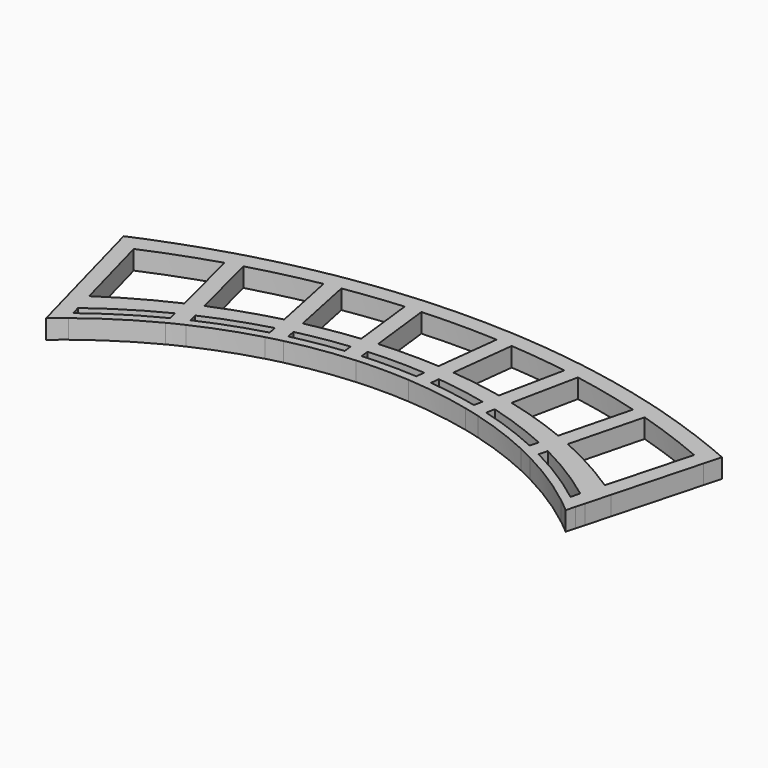
from build123d import *

# Parameters (mm, degrees)
F1_DEPTH = 3.6


with BuildPart() as f1:
    # F0 (on Top) → F1 (new body)
    with BuildSketch(Plane.XY):
        with BuildLine():
            ThreePointArc((-55.5688678236, 20.6576903398), (-54.185584583, 21.2841363983), (-52.7952796144, 21.894840322))
            Line((-52.7952796144, 21.894840322), (-53.7190827201, 25.3216838198))
            ThreePointArc((-53.7190827201, 25.3216838198), (-55.1162982089, 24.7374679544), (-56.5071613537, 24.1382860021))
            Line((-56.5071613537, 24.1382860021), (-55.5688678236, 20.6576903398))
        make_face()
        with BuildLine():
            ThreePointArc((-52.7952796144, 21.894840322), (-46.2587961602, 24.5198537491), (-39.593202902, 26.7971718993))
            Line((-39.593202902, 26.7971718993), (-40.4188323626, 30.0359334129))
            ThreePointArc((-40.4188323626, 30.0359334129), (-47.1279407712, 27.8452172268), (-53.7190827201, 25.3216838198))
            Line((-53.7190827201, 25.3216838198), (-52.7952796144, 21.894840322))
        make_face()
        with BuildLine():
            ThreePointArc((-39.593202902, 26.7971718993), (-38.1577044433, 27.2369449654), (-36.717360925, 27.6605800964))
            Line((-36.717360925, 27.6605800964), (-37.5343021062, 30.8652594142))
            ThreePointArc((-37.5343021062, 30.8652594142), (-38.9787729256, 30.4582681649), (-40.4188323626, 30.0359334129))
            Line((-40.4188323626, 30.0359334129), (-39.593202902, 26.7971718993))
        make_face()
        with BuildLine():
            ThreePointArc((-36.717360925, 27.6605800964), (-30.3789439958, 29.3192927382), (-23.9669153802, 30.6656752356))
            Line((-23.9669153802, 30.6656752356), (-24.6099100768, 33.7871237042))
            ThreePointArc((-24.6099100768, 33.7871237042), (-31.1064318059, 32.4780257806), (-37.5343021062, 30.8652594142))
            Line((-37.5343021062, 30.8652594142), (-36.717360925, 27.6605800964))
        make_face()
        with BuildLine():
            ThreePointArc((-23.9669153802, 30.6656752356), (-22.4895423297, 30.9297385081), (-21.0092998487, 31.177211213))
            Line((-21.0092998487, 31.177211213), (-21.648325492, 34.2793917228))
            ThreePointArc((-21.648325492, 34.2793917228), (-23.1304273941, 34.0411365922), (-24.6099100768, 33.7871237042))
            Line((-24.6099100768, 33.7871237042), (-23.9669153802, 30.6656752356))
        make_face()
        with BuildLine():
            ThreePointArc((-21.0092998487, 31.177211213), (-15.5607295458, 31.9421265981), (-10.0853142694, 32.4823501107))
            Line((-10.0853142694, 32.4823501107), (-10.4454135748, 35.5631313424))
            ThreePointArc((-10.4454135748, 35.5631313424), (-16.0597016994, 35.0332450092), (-21.648325492, 34.2793917228))
            Line((-21.648325492, 34.2793917228), (-21.0092998487, 31.177211213))
        make_face()
        with BuildLine():
            ThreePointArc((-10.0853142694, 32.4823501107), (-8.5873374112, 32.590641054), (-7.0882392035, 32.682107768))
            Line((-7.0882392035, 32.682107768), (-7.4472605083, 35.75366631))
            ThreePointArc((-7.4472605083, 35.75366631), (-8.9468442679, 35.6663802604), (-10.4454135748, 35.5631313424))
            Line((-10.4454135748, 35.5631313424), (-10.0853142694, 32.4823501107))
        make_face()
        with BuildLine():
            ThreePointArc((-7.0882392035, 32.682107768), (0.0014737105, 32.8864386451), (7.0920515694, 32.7147239529))
            Line((7.0920515695, 32.7147239529), (7.4472605083, 35.75366631))
            ThreePointArc((7.4472605083, 35.75366631), (0, 35.9503832669), (-7.4472605083, 35.75366631))
            Line((-7.4472605083, 35.75366631), (-7.0882392035, 32.682107768))
        make_face()
        with BuildLine():
            ThreePointArc((7.0920515694, 32.7147239529), (8.5919141507, 32.6301320433), (10.0907322428, 32.5287028547))
            Line((10.0907322428, 32.5287028547), (10.4454135748, 35.5631313424))
            ThreePointArc((10.4454135748, 35.5631313424), (8.9468442679, 35.6663802604), (7.4472605083, 35.75366631))
            Line((7.4472605083, 35.75366631), (7.0920515695, 32.7147239529))
        make_face()
        with BuildLine():
            ThreePointArc((10.0907322428, 32.5287028547), (15.5727564583, 32.0131629909), (21.0289217822, 31.2724668265))
            Line((21.0289217822, 31.2724668265), (21.648325492, 34.2793917228))
            ThreePointArc((21.648325492, 34.2793917228), (16.0597016994, 35.0332450092), (10.4454135748, 35.5631313424))
            Line((10.4454135748, 35.5631313424), (10.0907322428, 32.5287028547))
        make_face()
        with BuildLine():
            ThreePointArc((21.0289217822, 31.2724668265), (22.510499674, 31.0316663195), (23.9892824564, 30.7742572754))
            Line((23.9892824564, 30.7742572754), (24.6099100768, 33.7871237042))
            ThreePointArc((24.6099100768, 33.7871237042), (23.1304273941, 34.0411365922), (21.648325492, 34.2793917228))
            Line((21.648325492, 34.2793917228), (21.0289217822, 31.2724668265))
        make_face()
        with BuildLine():
            ThreePointArc((23.9892824564, 30.7742572754), (30.4104411274, 29.4562089555), (36.7593256815, 27.8251985418))
            Line((36.7593256815, 27.8251985418), (37.5343021062, 30.8652594142))
            ThreePointArc((37.5343021062, 30.8652594142), (31.1064318059, 32.4780257806), (24.6099100768, 33.7871237042))
            Line((24.6099100768, 33.7871237042), (23.9892824564, 30.7742572754))
        make_face()
        with BuildLine():
            ThreePointArc((36.7593256815, 27.8251985418), (38.2012958234, 27.4080975204), (39.6384950024, 26.9748427778))
            Line((39.6384950024, 26.9748427778), (40.4188323626, 30.0359334129))
            ThreePointArc((40.4188323626, 30.0359334129), (38.9787729256, 30.4582681649), (37.5343021062, 30.8652594142))
            Line((37.5343021062, 30.8652594142), (36.7593256815, 27.8251985418))
        make_face()
        with BuildLine():
            ThreePointArc((39.6384950024, 26.9748427778), (46.312735473, 24.7279905415), (52.8594887346, 22.1330237669))
            Line((52.8594887346, 22.1330237669), (53.7190827201, 25.3216838198))
            ThreePointArc((53.7190827201, 25.3216838198), (47.1279407712, 27.8452172268), (40.4188323626, 30.0359334129))
            Line((40.4188323626, 30.0359334129), (39.6384950024, 26.9748427778))
        make_face()
        with BuildLine():
            ThreePointArc((52.8594887346, 22.1330237669), (54.2515591715, 21.5290236378), (55.6366887925, 20.9092719212))
            Line((55.6366887925, 20.9092719212), (56.5071613537, 24.1382860021))
            ThreePointArc((56.5071613537, 24.1382860021), (55.1162982089, 24.7374679544), (53.7190827201, 25.3216838198))
            Line((53.7190827201, 25.3216838198), (52.8594887346, 22.1330237669))
        make_face()
        with BuildLine():
            Line((-46.5230675213, -1.3719024465), (-46.9749237949, 0.3042563839))
            ThreePointArc((-46.9749237949, 0.3042563839), (-48.2620002417, -0.711324499), (-49.5271267028, -1.7541213856))
            Line((-49.5271267028, -1.7541213856), (-49.066466608, -3.4629379517))
            ThreePointArc((-49.066466608, -3.4629379517), (-47.8062011263, -2.4035125529), (-46.5230675213, -1.3719024465))
        make_face()
        with BuildLine():
            Line((-34.3955429851, 6.4079032219), (-34.8007691527, 7.997515728))
            ThreePointArc((-34.8007691527, 7.997515728), (-41.068388684, 4.4365840531), (-46.9749237949, 0.3042563839))
            Line((-46.9749237949, 0.3042563839), (-46.5230675213, -1.3719024465))
            ThreePointArc((-46.5230675213, -1.3719024465), (-40.6458697241, 2.808825801), (-34.3955429851, 6.4079032219))
        make_face()
        with BuildLine():
            Line((-31.6422633501, 7.7520963417), (-32.0441549168, 9.3286279471))
            ThreePointArc((-32.0441549168, 9.3286279471), (-33.4290881329, 8.6767938937), (-34.8007691527, 7.997515728))
            Line((-34.8007691527, 7.997515728), (-34.3955429851, 6.4079032219))
            ThreePointArc((-34.3955429851, 6.4079032219), (-33.0257426892, 7.0940090156), (-31.6422633501, 7.7520963417))
        make_face()
        with BuildLine():
            Line((-20.1192404851, 11.9869536647), (-20.4427700308, 13.5575432981))
            ThreePointArc((-20.4427700308, 13.5575432981), (-26.3285064877, 11.6763909163), (-32.0441549168, 9.3286279471))
            Line((-32.0441549168, 9.3286279471), (-31.6422633501, 7.7520963417))
            ThreePointArc((-31.6422633501, 7.7520963417), (-25.9672259581, 10.1048203791), (-20.1192404851, 11.9869536647))
        make_face()
        with BuildLine():
            Line((-17.2096787469, 12.7317690771), (-17.5326084903, 14.299446942))
            ThreePointArc((-17.5326084903, 14.299446942), (-18.9913124536, 13.942707312), (-20.4427700308, 13.5575432981))
            Line((-20.4427700308, 13.5575432981), (-20.1192404851, 11.9869536647))
            ThreePointArc((-20.1192404851, 11.9869536647), (-18.6681745293, 12.3738733821), (-17.2096787469, 12.7317690771))
        make_face()
        with BuildLine():
            Line((-7.9604428493, 14.3032981332), (-8.1462052495, 15.8925633929))
            ThreePointArc((-8.1462052495, 15.8925633929), (-12.8640924195, 15.2414487241), (-17.5326084903, 14.299446942))
            Line((-17.5326084903, 14.299446942), (-17.2096787469, 12.7317690771))
            ThreePointArc((-17.2096787469, 12.7317690771), (-12.6095670499, 13.6617651755), (-7.9604428493, 14.3032981332))
        make_face()
        with BuildLine():
            Line((-4.970155548, 14.5611275987), (-5.1561382808, 16.1522778842))
            ThreePointArc((-5.1561382808, 16.1522778842), (-6.6524393086, 16.0370137389), (-8.1462052495, 15.8925633929))
            Line((-8.1462052495, 15.8925633929), (-7.9604428493, 14.3032981332))
            ThreePointArc((-7.9604428493, 14.3032981332), (-6.4665843176, 14.4471175814), (-4.970155548, 14.5611275987))
        make_face()
        with BuildLine():
            Line((4.970155548, 14.5611275987), (5.1561382808, 16.1522778842))
            ThreePointArc((5.1561382808, 16.1522778842), (0, 16.3253832669), (-5.1561382808, 16.1522778842))
            Line((-5.1561382808, 16.1522778842), (-4.970155548, 14.5611275987))
            ThreePointArc((-4.970155548, 14.5611275987), (0, 14.7253832669), (4.970155548, 14.5611275987))
        make_face()
        with BuildLine():
            Line((7.9604428493, 14.3032981332), (8.1462052495, 15.8925633929))
            ThreePointArc((8.1462052495, 15.8925633929), (6.6524393086, 16.0370137389), (5.1561382808, 16.1522778842))
            Line((5.1561382808, 16.1522778842), (4.970155548, 14.5611275987))
            ThreePointArc((4.970155548, 14.5611275987), (6.4665843176, 14.4471175814), (7.9604428493, 14.3032981332))
        make_face()
        with BuildLine():
            Line((17.2096787469, 12.7317690771), (17.5326084903, 14.299446942))
            ThreePointArc((17.5326084903, 14.299446942), (12.8640924195, 15.2414487241), (8.1462052495, 15.8925633929))
            Line((8.1462052495, 15.8925633929), (7.9604428493, 14.3032981332))
            ThreePointArc((7.9604428493, 14.3032981332), (12.6095670499, 13.6617651755), (17.2096787469, 12.7317690771))
        make_face()
        with BuildLine():
            Line((20.1192404851, 11.9869536647), (20.4427700308, 13.5575432981))
            ThreePointArc((20.4427700308, 13.5575432981), (18.9913124536, 13.942707312), (17.5326084903, 14.299446942))
            Line((17.5326084903, 14.299446942), (17.2096787469, 12.7317690771))
            ThreePointArc((17.2096787469, 12.7317690771), (18.6681745293, 12.3738733821), (20.1192404851, 11.9869536647))
        make_face()
        with BuildLine():
            Line((31.6422633501, 7.7520963417), (32.0441549168, 9.3286279471))
            ThreePointArc((32.0441549168, 9.3286279471), (26.3285064877, 11.6763909163), (20.4427700308, 13.5575432981))
            Line((20.4427700308, 13.5575432981), (20.1192404851, 11.9869536647))
            ThreePointArc((20.1192404851, 11.9869536647), (25.9672259581, 10.1048203791), (31.6422633501, 7.7520963417))
        make_face()
        with BuildLine():
            Line((34.3955429851, 6.4079032219), (34.8007691527, 7.997515728))
            ThreePointArc((34.8007691527, 7.997515728), (33.4290881329, 8.6767938937), (32.0441549168, 9.3286279471))
            Line((32.0441549168, 9.3286279471), (31.6422633501, 7.7520963417))
            ThreePointArc((31.6422633501, 7.7520963417), (33.0257426892, 7.0940090156), (34.3955429851, 6.4079032219))
        make_face()
        with BuildLine():
            Line((46.5230675213, -1.3719024465), (46.9749237949, 0.3042563839))
            ThreePointArc((46.9749237949, 0.3042563839), (41.068388684, 4.4365840531), (34.8007691527, 7.997515728))
            Line((34.8007691527, 7.997515728), (34.3955429851, 6.4079032219))
            ThreePointArc((34.3955429851, 6.4079032219), (40.6458697241, 2.808825801), (46.5230675213, -1.3719024465))
        make_face()
        with BuildLine():
            Line((49.066466608, -3.4629379517), (49.5271267028, -1.7541213856))
            ThreePointArc((49.5271267028, -1.7541213856), (48.2620002417, -0.711324499), (46.9749237949, 0.3042563839))
            Line((46.9749237949, 0.3042563839), (46.5230675213, -1.3719024465))
            ThreePointArc((46.5230675213, -1.3719024465), (47.8062011263, -2.4035125529), (49.066466608, -3.4629379517))
        make_face()
        with BuildLine():
            Line((-46.9749237949, 0.3042563839), (-47.4392010259, 2.0264907006))
            ThreePointArc((-47.4392010259, 2.0264907006), (-48.7301358533, 1.0265584579), (-50, 0))
            Line((-50, 0), (-49.5271267028, -1.7541213856))
            ThreePointArc((-49.5271267028, -1.7541213856), (-48.2620002417, -0.711324499), (-46.9749237949, 0.3042563839))
        make_face()
        with BuildLine():
            ThreePointArc((-50, 0), (-48.7301358533, 1.0265584579), (-47.4392010259, 2.0264907006))
            Line((-47.4392010259, 2.0264907006), (-48.513730371, 6.0124525107))
            ThreePointArc((-48.513730371, 6.0124525107), (-49.8290561068, 5.1097374976), (-51.1276941541, 4.1831764321))
            Line((-51.1276941541, 4.1831764321), (-50, 0))
        make_face()
        with BuildLine():
            ThreePointArc((-51.1276941541, 4.1831764321), (-49.8290561068, 5.1097374976), (-48.513730371, 6.0124525107))
            Line((-48.513730371, 6.0124525107), (-52.7952796144, 21.894840322))
            ThreePointArc((-52.7952796144, 21.894840322), (-54.185584583, 21.2841363983), (-55.5688678236, 20.6576903398))
            Line((-55.5688678236, 20.6576903398), (-51.1276941541, 4.1831764321))
        make_face()
        with BuildLine():
            ThreePointArc((-47.4392010259, 2.0264907006), (-41.5034310467, 6.1114209268), (-35.218216569, 9.635069486))
            Line((-35.218216569, 9.635069486), (-36.0718209619, 12.9835704633))
            ThreePointArc((-36.0718209619, 12.9835704633), (-42.4351383709, 9.7520975437), (-48.513730371, 6.0124525107))
            Line((-48.513730371, 6.0124525107), (-47.4392010259, 2.0264907006))
        make_face()
        with BuildLine():
            ThreePointArc((-35.218216569, 9.635069486), (-33.8446840502, 10.3076151424), (-32.4583145418, 10.9532844281))
            Line((-32.4583145418, 10.9532844281), (-33.2859665378, 14.1999798999))
            ThreePointArc((-33.2859665378, 14.1999798999), (-34.6841801562, 13.6038822552), (-36.0718209619, 12.9835704633))
            Line((-36.0718209619, 12.9835704633), (-35.218216569, 9.635069486))
        make_face()
        with BuildLine():
            ThreePointArc((-36.0718209619, 12.9835704633), (-34.6841801562, 13.6038822552), (-33.2859665378, 14.1999798999))
            Line((-33.2859665378, 14.1999798999), (-36.717360925, 27.6605800964))
            ThreePointArc((-36.717360925, 27.6605800964), (-38.1577044433, 27.2369449654), (-39.593202902, 26.7971718993))
            Line((-39.593202902, 26.7971718993), (-36.0718209619, 12.9835704633))
        make_face()
        with BuildLine():
            ThreePointArc((-32.4583145418, 10.9532844281), (-26.7009968011, 13.2965296683), (-20.7763790714, 15.1770643214))
            Line((-20.7763790714, 15.1770643214), (-21.3938285345, 18.1745022341))
            ThreePointArc((-21.3938285345, 18.1745022341), (-27.4112312366, 16.4006780888), (-33.2859665378, 14.1999798999))
            Line((-33.2859665378, 14.1999798999), (-32.4583145418, 10.9532844281))
        make_face()
        with BuildLine():
            ThreePointArc((-21.3938285345, 18.1745022341), (-19.9368801594, 18.5344430465), (-18.473968898, 18.8693260071))
            Line((-18.473968898, 18.8693260071), (-21.0092998487, 31.177211213))
            ThreePointArc((-21.0092998487, 31.177211213), (-22.4895423297, 30.9297385081), (-23.9669153802, 30.6656752356))
            Line((-23.9669153802, 30.6656752356), (-21.3938285345, 18.1745022341))
        make_face()
        with BuildLine():
            ThreePointArc((-20.7763790714, 15.1770643214), (-19.3245350062, 15.5604928539), (-17.8656246804, 15.9160899438))
            Line((-17.8656246804, 15.9160899438), (-18.473968898, 18.8693260071))
            ThreePointArc((-18.473968898, 18.8693260071), (-19.9368801594, 18.5344430465), (-21.3938285345, 18.1745022341))
            Line((-21.3938285345, 18.1745022341), (-20.7763790714, 15.1770643214))
        make_face()
        with BuildLine():
            ThreePointArc((-17.8656246804, 15.9160899438), (-13.1265716159, 16.8704949196), (-8.337772304, 17.5314895921))
            Line((-8.337772304, 17.5314895921), (-8.6785551578, 20.4470115166))
            ThreePointArc((-8.6785551578, 20.4470115166), (-13.598657046, 19.7972132464), (-18.473968898, 18.8693260071))
            Line((-18.473968898, 18.8693260071), (-17.8656246804, 15.9160899438))
        make_face()
        with BuildLine():
            ThreePointArc((-8.6785551578, 20.4470115166), (-7.184472017, 20.5883925683), (-5.6881824779, 20.7041105373))
            Line((-5.6881824779, 20.7041105373), (-7.0882392035, 32.682107768))
            ThreePointArc((-7.0882392035, 32.682107768), (-8.5873374112, 32.590641054), (-10.0853142694, 32.4823501107))
            Line((-10.0853142694, 32.4823501107), (-8.6785551578, 20.4470115166))
        make_face()
        with BuildLine():
            ThreePointArc((-8.337772304, 17.5314895921), (-6.844097503, 17.6765636156), (-5.3479231319, 17.7930674133))
            Line((-5.3479231319, 17.7930674133), (-5.6881824779, 20.7041105373))
            ThreePointArc((-5.6881824779, 20.7041105373), (-7.184472017, 20.5883925683), (-8.6785551578, 20.4470115166))
            Line((-8.6785551578, 20.4470115166), (-8.337772304, 17.5314895921))
        make_face()
        with BuildLine():
            ThreePointArc((18.500045998, 18.9959185346), (19.9649450982, 18.6711233396), (21.4240552631, 18.3212393318))
            Line((21.4240552631, 18.3212393318), (23.9892824564, 30.7742572754))
            ThreePointArc((23.9892824564, 30.7742572754), (22.510499674, 31.0316663195), (21.0289217822, 31.2724668265))
            Line((21.0289217822, 31.2724668265), (18.500045998, 18.9959185346))
        make_face()
        with BuildLine():
            Line((-32.0441549168, 9.3286279471), (-32.4583145418, 10.9532844281))
            ThreePointArc((-32.4583145418, 10.9532844281), (-33.8446840502, 10.3076151424), (-35.218216569, 9.635069486))
            Line((-35.218216569, 9.635069486), (-34.8007691527, 7.997515728))
            ThreePointArc((-34.8007691527, 7.997515728), (-33.4290881329, 8.6767938937), (-32.0441549168, 9.3286279471))
        make_face()
        with BuildLine():
            Line((-17.5326084903, 14.299446942), (-17.8656246804, 15.9160899438))
            ThreePointArc((-17.8656246804, 15.9160899438), (-19.3245350062, 15.5604928539), (-20.7763790714, 15.1770643214))
            Line((-20.7763790714, 15.1770643214), (-20.4427700308, 13.5575432981))
            ThreePointArc((-20.4427700308, 13.5575432981), (-18.9913124536, 13.942707312), (-17.5326084903, 14.299446942))
        make_face()
        with BuildLine():
            Line((-5.1561382808, 16.1522778842), (-5.3479231319, 17.7930674133))
            ThreePointArc((-5.3479231319, 17.7930674133), (-6.844097503, 17.6765636156), (-8.337772304, 17.5314895921))
            Line((-8.337772304, 17.5314895921), (-8.1462052495, 15.8925633929))
            ThreePointArc((-8.1462052495, 15.8925633929), (-6.6524393086, 16.0370137389), (-5.1561382808, 16.1522778842))
        make_face()
        with BuildLine():
            ThreePointArc((48.6069911122, 6.3584028141), (49.9253472105, 5.4674018881), (51.227271611, 4.5525585642))
            Line((51.227271611, 4.5525585642), (55.6366887925, 20.9092719212))
            ThreePointArc((55.6366887925, 20.9092719212), (54.2515591715, 21.5290236378), (52.8594887346, 22.1330237669))
            Line((52.8594887346, 22.1330237669), (48.6069911122, 6.3584028141))
        make_face()
        with BuildLine():
            ThreePointArc((33.3440787581, 14.4279412697), (34.7448053201, 13.8420818375), (36.1351482915, 13.2319895516))
            Line((36.1351482915, 13.2319895516), (39.6384950024, 26.9748427778))
            ThreePointArc((39.6384950024, 26.9748427778), (38.2012958234, 27.4080975204), (36.7593256815, 27.8251985418))
            Line((36.7593256815, 27.8251985418), (33.3440787581, 14.4279412697))
        make_face()
        with BuildLine():
            ThreePointArc((47.4392010259, 2.0264907006), (48.7301358533, 1.0265584579), (50, 0))
            Line((50, 0), (51.227271611, 4.5525585642))
            ThreePointArc((51.227271611, 4.5525585642), (49.9253472105, 5.4674018881), (48.6069911122, 6.3584028141))
            Line((48.6069911122, 6.3584028141), (47.4392010259, 2.0264907006))
        make_face()
        with BuildLine():
            Line((49.5271267028, -1.7541213856), (50, 0))
            ThreePointArc((50, 0), (48.7301358533, 1.0265584579), (47.4392010259, 2.0264907006))
            Line((47.4392010259, 2.0264907006), (46.9749237949, 0.3042563839))
            ThreePointArc((46.9749237949, 0.3042563839), (48.2620002417, -0.711324499), (49.5271267028, -1.7541213856))
        make_face()
        with BuildLine():
            ThreePointArc((32.4583145418, 10.9532844281), (33.8446840502, 10.3076151424), (35.218216569, 9.635069486))
            Line((35.218216569, 9.635069486), (36.1351482915, 13.2319895516))
            ThreePointArc((36.1351482915, 13.2319895516), (34.7448053201, 13.8420818375), (33.3440787581, 14.4279412697))
            Line((33.3440787581, 14.4279412697), (32.4583145418, 10.9532844281))
        make_face()
        with BuildLine():
            Line((34.8007691527, 7.997515728), (35.218216569, 9.635069486))
            ThreePointArc((35.218216569, 9.635069486), (33.8446840502, 10.3076151424), (32.4583145418, 10.9532844281))
            Line((32.4583145418, 10.9532844281), (32.0441549168, 9.3286279471))
            ThreePointArc((32.0441549168, 9.3286279471), (33.4290881329, 8.6767938937), (34.8007691527, 7.997515728))
        make_face()
        with BuildLine():
            Line((20.4427700308, 13.5575432981), (20.7763790714, 15.1770643214))
            ThreePointArc((20.7763790714, 15.1770643214), (19.3245350062, 15.5604928539), (17.8656246804, 15.9160899438))
            Line((17.8656246804, 15.9160899438), (17.5326084903, 14.299446942))
            ThreePointArc((17.5326084903, 14.299446942), (18.9913124536, 13.942707312), (20.4427700308, 13.5575432981))
        make_face()
        with BuildLine():
            ThreePointArc((17.8656246804, 15.9160899438), (19.3245350062, 15.5604928539), (20.7763790714, 15.1770643214))
            Line((20.7763790714, 15.1770643214), (21.4240552631, 18.3212393318))
            ThreePointArc((21.4240552631, 18.3212393318), (19.9649450982, 18.6711233396), (18.500045998, 18.9959185346))
            Line((18.500045998, 18.9959185346), (17.8656246804, 15.9160899438))
        make_face()
        with BuildLine():
            ThreePointArc((20.7763790714, 15.1770643214), (26.7009968011, 13.2965296683), (32.4583145418, 10.9532844281))
            Line((32.4583145418, 10.9532844281), (33.3440787581, 14.4279412697))
            ThreePointArc((33.3440787581, 14.4279412697), (27.4539484787, 16.5885448266), (21.4240552631, 18.3212393318))
            Line((21.4240552631, 18.3212393318), (20.7763790714, 15.1770643214))
        make_face()
        with BuildLine():
            ThreePointArc((35.218216569, 9.635069486), (41.5034310467, 6.1114209268), (47.4392010259, 2.0264907006))
            Line((47.4392010259, 2.0264907006), (48.6069911122, 6.3584028141))
            ThreePointArc((48.6069911122, 6.3584028141), (42.5112311881, 10.0495134837), (36.1351482915, 13.2319895516))
            Line((36.1351482915, 13.2319895516), (35.218216569, 9.635069486))
        make_face()
        with BuildLine():
            ThreePointArc((5.3479231319, 17.7930674133), (6.844097503, 17.6765636156), (8.337772304, 17.5314895921))
            Line((8.337772304, 17.5314895921), (8.6856028175, 20.5073068223))
            ThreePointArc((8.6856028175, 20.5073068223), (7.190219465, 20.6383364708), (5.6928071337, 20.7436761584))
            Line((5.6928071337, 20.7436761584), (5.3479231319, 17.7930674133))
        make_face()
        with BuildLine():
            ThreePointArc((5.6928071337, 20.7436761584), (7.190219465, 20.6383364708), (8.6856028175, 20.5073068223))
            Line((8.6856028175, 20.5073068223), (10.0907322428, 32.5287028547))
            ThreePointArc((10.0907322428, 32.5287028547), (8.5919141507, 32.6301320433), (7.0920515694, 32.7147239529))
            Line((7.0920515695, 32.7147239529), (5.6928071337, 20.7436761584))
        make_face()
        with BuildLine():
            Line((8.1462052495, 15.8925633929), (8.337772304, 17.5314895921))
            ThreePointArc((8.337772304, 17.5314895921), (6.844097503, 17.6765636156), (5.3479231319, 17.7930674133))
            Line((5.3479231319, 17.7930674133), (5.1561382808, 16.1522778842))
            ThreePointArc((5.1561382808, 16.1522778842), (6.6524393086, 16.0370137389), (8.1462052495, 15.8925633929))
        make_face()
        with BuildLine():
            ThreePointArc((8.337772304, 17.5314895921), (13.1265716159, 16.8704949196), (17.8656246804, 15.9160899438))
            Line((17.8656246804, 15.9160899438), (18.500045998, 18.9959185346))
            ThreePointArc((18.500045998, 18.9959185346), (13.6142967153, 19.8910465644), (8.6856028175, 20.5073068223))
            Line((8.6856028175, 20.5073068223), (8.337772304, 17.5314895921))
        make_face()
        with BuildLine():
            ThreePointArc((-5.3479231319, 17.7930674133), (0, 17.9753832669), (5.3479231319, 17.7930674133))
            Line((5.3479231319, 17.7930674133), (5.6928071337, 20.7436761584))
            ThreePointArc((5.6928071337, 20.7436761584), (0.0016679239, 20.9092551542), (-5.6881824779, 20.7041105373))
            Line((-5.6881824779, 20.7041105373), (-5.3479231319, 17.7930674133))
        make_face()
    extrude(amount=F1_DEPTH)


solid = f1.part
